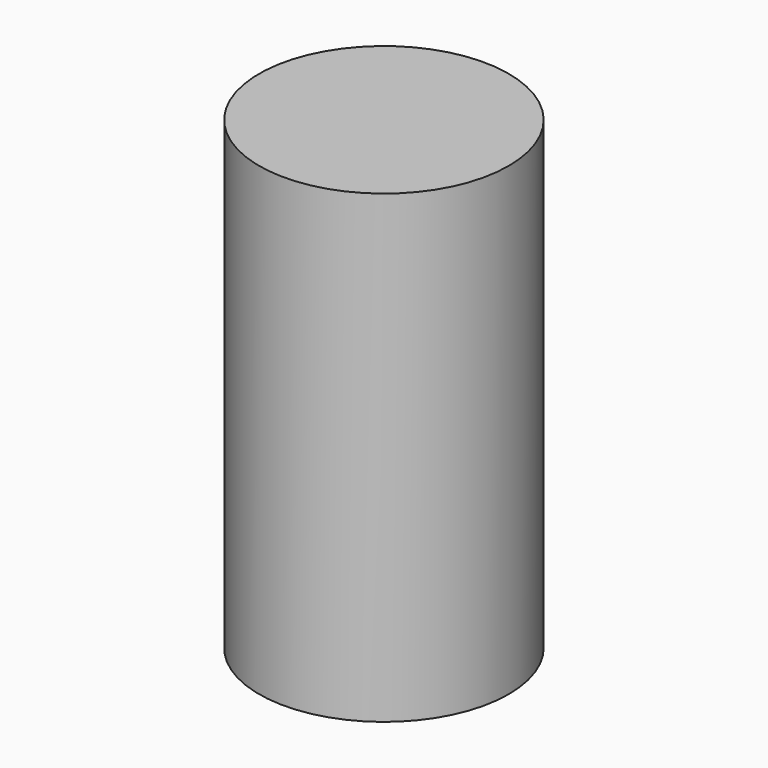
from build123d import *

# Parameters (mm, degrees)
F0_R     = 55
F1_DEPTH = 205
F2_R     = 50
F3_DEPTH = 200


with BuildPart() as f1:
    # F0 (on Top) → F1 (new body)
    with BuildSketch(Plane.XY):
        Circle(F0_R)
    extrude(amount=-F1_DEPTH)

    # F2 (on face) → F3 (cut)
    with BuildSketch(Plane(origin=(0, 0, -205), x_dir=(1, 0, 0), z_dir=(0, 0, -1))):
        Circle(F2_R)
    extrude(amount=-F3_DEPTH, mode=Mode.SUBTRACT)


solid = f1.part
